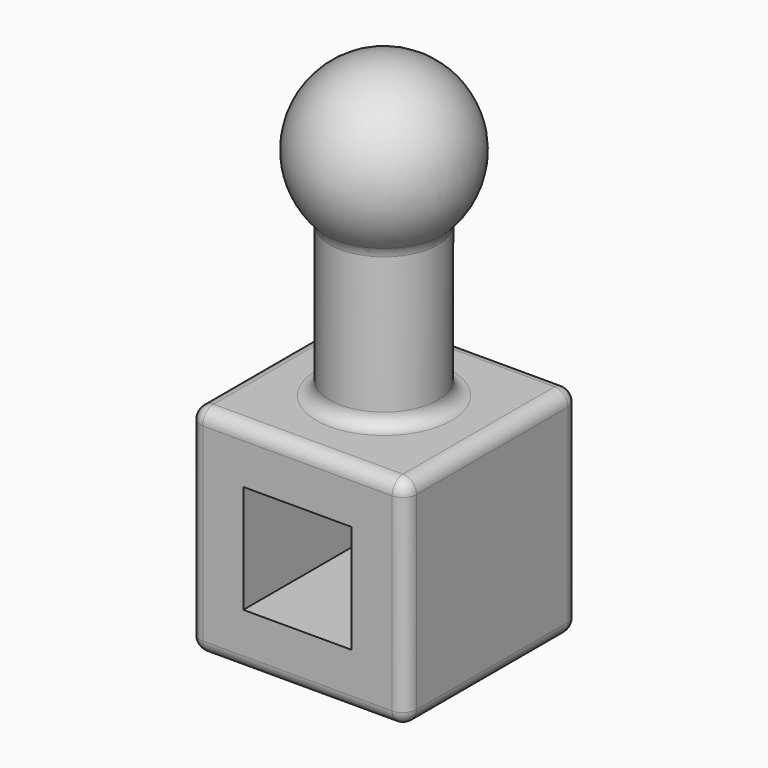
from build123d import *

# Parameters (mm, degrees)
F0_W     = 101.6
F0_H     = 101.6
F1_DEPTH = 101.6
F2_R     = 25.4
F3_DEPTH = 203.2
F6_W     = 50.8
F6_H     = 50.8
F7_DEPTH = 101.6
F8_R     = 6.35


with BuildPart() as f1:
    # F0 (on Top) → F1 (new body)
    with BuildSketch(Plane.XY):
        Rectangle(F0_W, F0_H)
    extrude(amount=F1_DEPTH)

    # F2 (on Top) → F3 (join)
    with BuildSketch(Plane.XY):
        Circle(F2_R)
    extrude(amount=F3_DEPTH)

    # F4 (on face) → F5 (revolve)
    with BuildSketch(Plane.XY.offset(203.2)):
        with BuildLine():
            Line((0, -25.4), (0, -38.1))
            ThreePointArc((0, -38.1), (38.1, 0), (0, 38.1))
            Line((0, 38.1), (0, 25.4))
            ThreePointArc((0, 25.4), (17.9605122421, 17.9605122421), (25.4, 0))
            ThreePointArc((25.4, 0), (17.9605122421, -17.9605122421), (0, -25.4))
        make_face()
        with BuildLine():
            Line((0, 25.4), (0, -25.4))
            ThreePointArc((0, -25.4), (17.9605122421, -17.9605122421), (25.4, 0))
            ThreePointArc((25.4, 0), (17.9605122421, 17.9605122421), (0, 25.4))
        make_face()
    revolve(axis=Axis((0, 0, 203.2), (0, -1, 0)))

    # F6 (on face) → F7 (cut)
    with BuildSketch(Plane.XZ.offset(50.8)):
        with Locations((0, 50.8)):
            Rectangle(F6_W, F6_H)
    extrude(amount=-F7_DEPTH, mode=Mode.SUBTRACT)

    # F8
    f8_edges = [f1.edges().sort_by_distance(p)[0] for p in [
        (-25.4, 0, 101.6),
        (50.8, 0, 101.6),
        (50.8, -50.8, 50.8),
        (0, -50.8, 101.6),
        (0, 50.8, 101.6),
        (-50.8, 0, 101.6),
        (-25.4, 0, 174.801937),
        (50.8, 50.8, 50.8),
        (50.8, 0, 0),
        (0, -50.8, 0),
        (-50.8, -50.8, 50.8),
        (-50.8, 50.8, 50.8),
        (0, 50.8, 0),
        (-50.8, 0, 0),
    ]]
    fillet(f8_edges, radius=F8_R)


solid = f1.part
